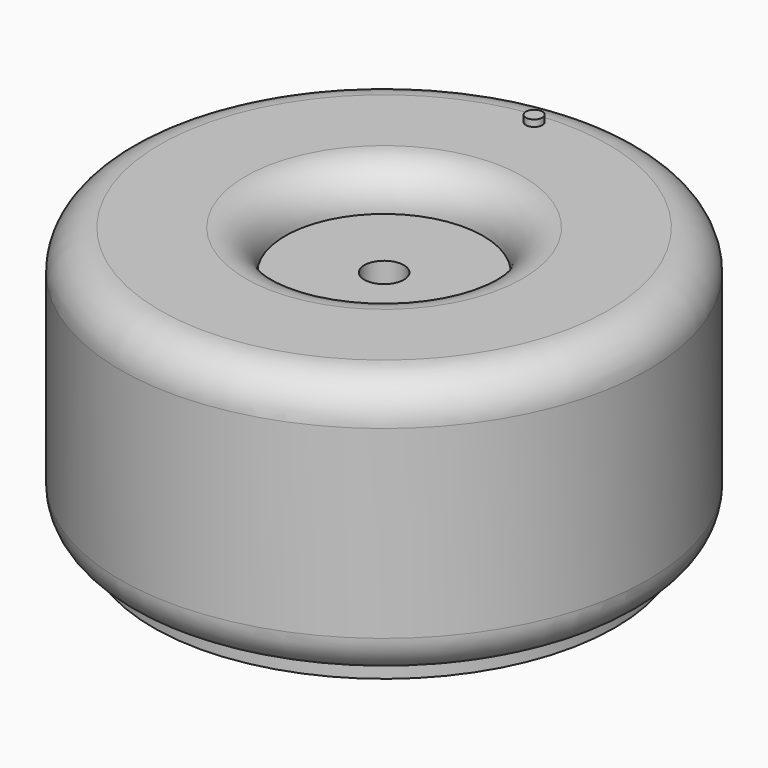
from build123d import *

# Parameters (mm, degrees)
F0_R     = 40
F0_R_2   = 15
F1_DEPTH = 40
F2_R     = 6
F4_R     = 15
F4_R_2   = 3
F5_DEPTH = 30
F6_R     = 1.25
F7_DEPTH = 1
F8_R     = 35
F8_R_2   = 3
F9_DEPTH = 2


with BuildPart() as f1:
    # F0 (on Top) → F1 (new body)
    with BuildSketch(Plane.XY):
        Circle(F0_R)
        Circle(F0_R_2, mode=Mode.SUBTRACT)
    extrude(amount=F1_DEPTH)

    # F2
    f2_edges = [f1.edges().sort_by_distance(p)[0] for p in [
        (-15, 0, 40),
        (-40, 0, 40),
        (-40, 0, 0),
        (-15, 0, 0),
    ]]
    fillet(f2_edges, radius=F2_R)


with BuildPart() as f5:
    # F4 (on offset) → F5 (new body)
    with BuildSketch(Plane.XY.offset(4)):
        Circle(F4_R)
        Circle(F4_R_2, mode=Mode.SUBTRACT)
    extrude(amount=F5_DEPTH)


with BuildPart() as f7:
    # F6 (on face) → F7 (new body)
    with BuildSketch(Plane.XY.offset(40)):
        with Locations((-3, 32.173138)):
            Circle(F6_R)
    extrude(amount=F7_DEPTH)


with BuildPart() as f9:
    # F8 (on face) → F9 (new body)
    with BuildSketch(Plane(origin=(0, 0, 0), x_dir=(1, 0, 0), z_dir=(0, 0, -1))):
        Circle(F8_R)
        Circle(F8_R_2, mode=Mode.SUBTRACT)
    extrude(amount=F9_DEPTH)


solid = Compound([f1.part, f5.part, f7.part, f9.part])
